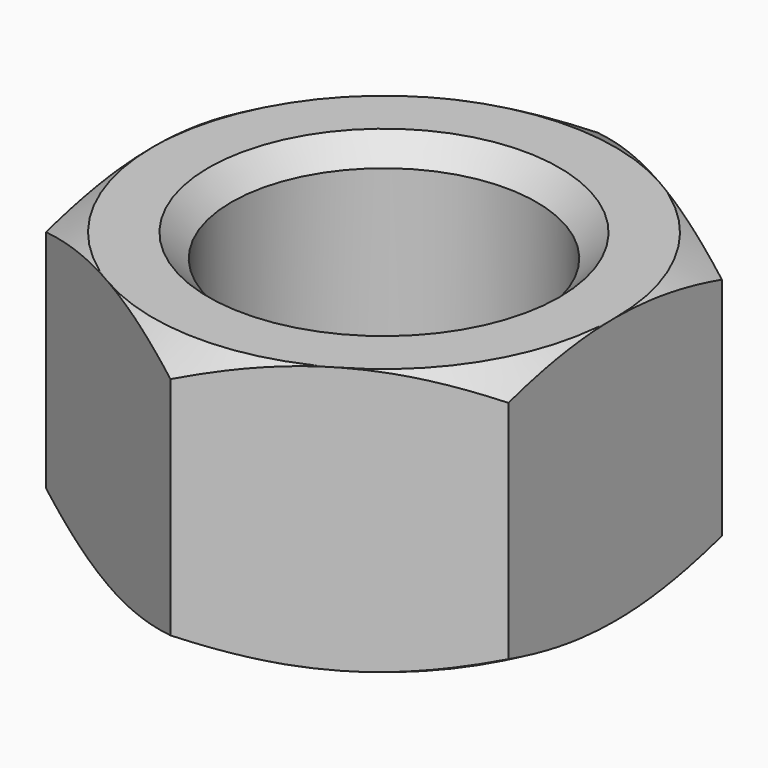
from build123d import *

# Parameters (mm, degrees)
F0_R     = 2
F1_DEPTH = 3.5
F4_SIZE  = 0.3


with BuildPart() as f1:
    # F0 (on Top) → F1 (new body)
    with BuildSketch(Plane.XY):
        Polygon((3.031089, 1.75), (0, 3.5), (-3.031089, 1.75), (-3.031089, -1.75), (0, -3.5), (3.031089, -1.75), align=None)
        Circle(F0_R, mode=Mode.SUBTRACT)
    extrude(amount=F1_DEPTH)

    # F2 (on Front) → F3 (revolve, cut)
    with BuildSketch(Plane.XZ):
        Polygon((3.031089, 3.5), (5.80237, 1.9), (5.80237, 3.5), align=None)
        Polygon((5.80237, 1.6), (3.031089, 0), (5.80237, 0), align=None)
    revolve(axis=Axis((0, 0, 1.75), (0, 0, -1)), mode=Mode.SUBTRACT)

    # F4
    f4_edges = [f1.edges().sort_by_distance(p)[0] for p in [
        (-2, 0, 3.5),
        (-2, 0, 0),
    ]]
    chamfer(f4_edges, length=F4_SIZE)


solid = f1.part
